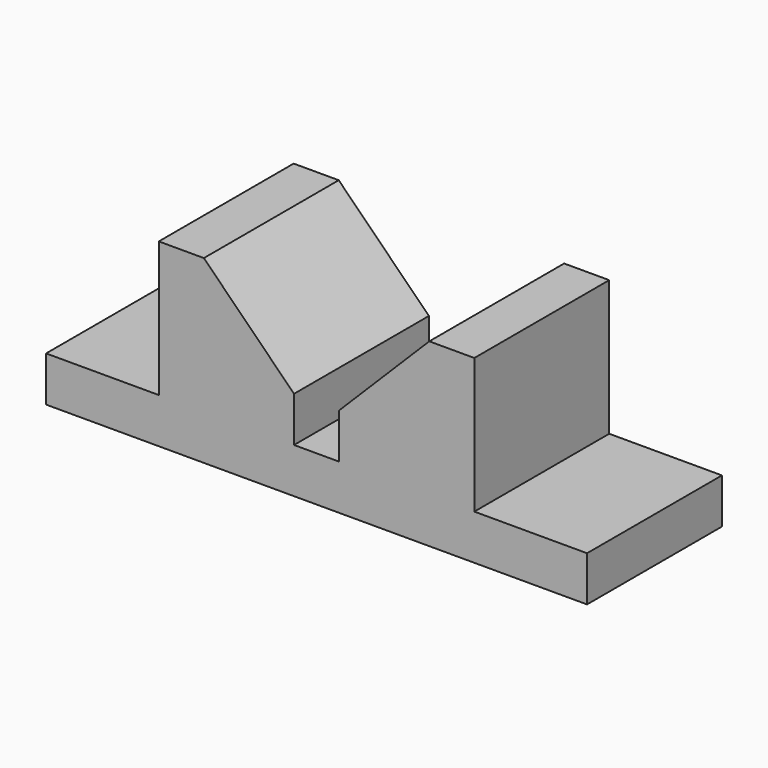
from build123d import *

# Parameters (mm, degrees)
F1_DEPTH = 47.498


with BuildPart() as f1:
    # F0 (on Front) → F1 (new body)
    with BuildSketch(Plane.XZ):
        Polygon((0, 12.7), (0, 0), (31.75, 0), (120.65, 0), (152.4, 0), (152.4, 12.7), (120.65, 12.7), (120.65, 50.8), (107.95, 50.8), (82.55, 25.4), (82.55, 12.7), (69.85, 12.7), (69.85, 25.4), (44.45, 50.8), (31.75, 50.8), (31.75, 12.7), align=None)
    extrude(amount=-F1_DEPTH)


solid = f1.part
